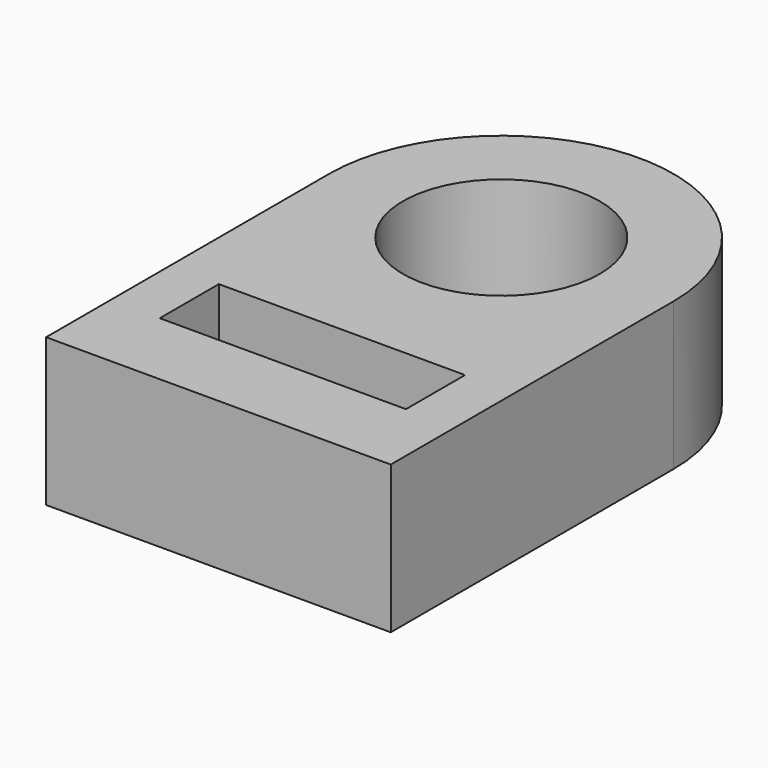
from build123d import *

# Parameters (mm, degrees)
F0_R     = 20
F1_DEPTH = 30


with BuildPart() as f1:
    # F0 (on Top) → F1 (new body)
    with BuildSketch(Plane.XY):
        with BuildLine():
            Line((35, -71.825032), (35, 0))
            ThreePointArc((35, 0), (0, 35), (-35, 0))
            Line((-35, 0), (-35, -71.825032))
            Line((-35, -71.825032), (35, -71.825032))
        make_face()
        Polygon((-25, -40.466097), (0, -40.466097), (25, -40.466097), (25, -55.466097), (-25, -55.466097), align=None, mode=Mode.SUBTRACT)
        Circle(F0_R, mode=Mode.SUBTRACT)
    extrude(amount=F1_DEPTH)


solid = f1.part
